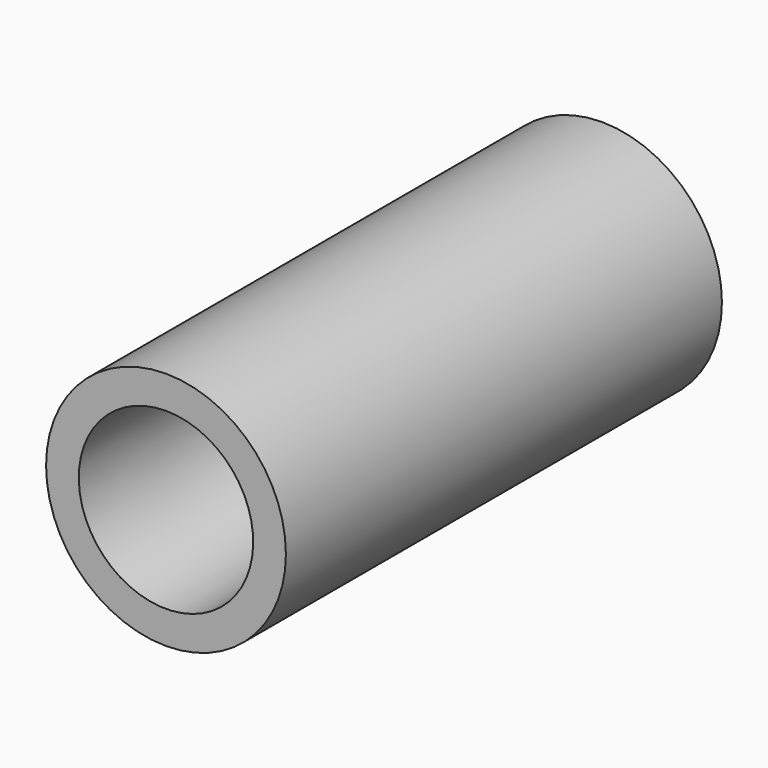
from build123d import *


with BuildPart() as f1:
    # F0 (on Right) → F1 (revolve)
    with BuildSketch(Plane.YZ):
        with BuildLine():
            Line((-0.031651, 0.875), (0, 0.875))
            Line((0, 0.875), (0, 5.5))
            Line((0, 5.5), (-25, 5.5))
            Line((-25, 5.5), (-25, 4))
            Line((-25, 4), (-3.26508, 3.347329))
            Line((-3.26508, 3.347329), (-1.204977, 1.499324))
            ThreePointArc((-1.204977, 1.499324), (-0.545392, 1.324208), (-0.031651, 0.875))
        make_face()
    revolve(axis=Axis((0, -12.5, 0), (0, 1, 0)))


solid = f1.part
